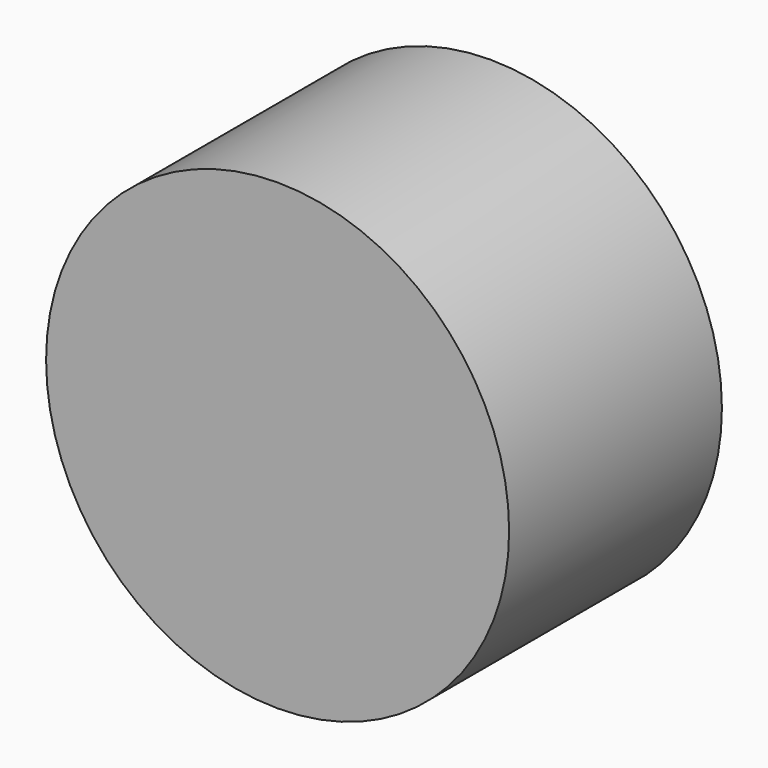
from build123d import *

# Parameters (mm, degrees)
OBJ1         = 0.75
EXTRUSION7_CUT_DEPTH = 2
OBJ2         = 0.9
EXTRUSION6_CUT_DEPTH = 0.3
OBJ3         = 2.35
EXTRUSION5_DEPTH     = 2.7


with BuildPart() as extrusion7_cut:
    with BuildSketch(Plane(origin=(5.7, 9.1, -6.15), x_dir=(1, 0, 0), z_dir=(0, 1, 0))):
        Circle(OBJ1)
    extrude(amount=-EXTRUSION7_CUT_DEPTH)


with BuildPart() as extrusion6_cut:
    with BuildSketch(Plane(origin=(5.7, 9.4, -6.15), x_dir=(1, 0, 0), z_dir=(0, 1, 0))):
        Circle(OBJ2)
    extrude(amount=-EXTRUSION6_CUT_DEPTH)


with BuildPart() as extrusion7:
    with BuildSketch(Plane(origin=(5.7, 6.7, -6.15), x_dir=(1, 0, 0), z_dir=(0, 1, 0))):
        Circle(OBJ3)
    extrude(amount=EXTRUSION5_DEPTH)

    # Extrusion6: cut Extrusion6_Cut
    add(extrusion6_cut.part, mode=Mode.SUBTRACT)

    # Extrusion7: cut Extrusion7_Cut
    add(extrusion7_cut.part, mode=Mode.SUBTRACT)


solid = extrusion7.part
